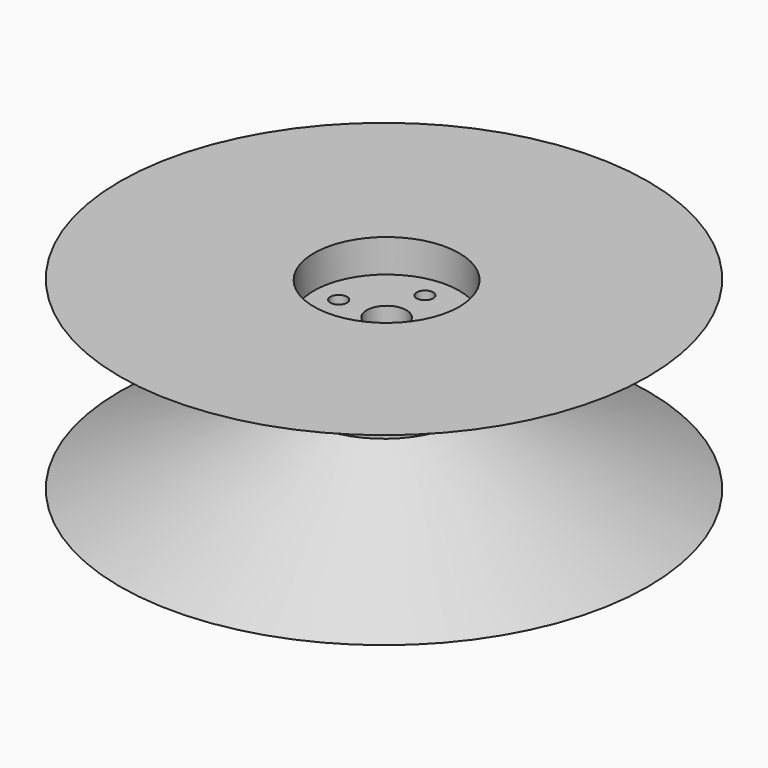
from build123d import *

# Parameters (mm, degrees)
F0_R      = 40
F1_DEPTH  = 13
F1_TAPER  = 65
F2_DEPTH  = 2
F2_FACE_R = 12.1214100334
F3_DEPTH  = 13
F3_TAPER  = -65
F4_R      = 11
F5_DEPTH  = 5
F6_R      = 3
F7_DEPTH  = 50
F6_R_2    = 1.25
F8_DEPTH  = 20
F9_R      = 13.260393294
F9_R_2    = 3
F10_DEPTH = 5


with BuildPart() as f1:
    # F0 (on Top) → F1 (new body)
    with BuildSketch(Plane.XY):
        with Locations((-0.3933568078, 0)):
            Circle(F0_R)
    extrude(amount=F1_DEPTH, taper=F1_TAPER)

    # F2 (add): a face of the model
    f2_faces = [f1.faces().sort_by_distance(p)[0] for p in [
        (-0.3933568078, 0, 13),
    ]]
    extrude(f2_faces, amount=F2_DEPTH)

    # F2_face (on face) → F3 (join)
    with BuildSketch(Plane(origin=(-0.3933568078, 0, 15), x_dir=(1, 0, 0), z_dir=(0, 0, 1))):
        Circle(F2_FACE_R)
    extrude(amount=F3_DEPTH, taper=F3_TAPER)

    # F4 (on face) → F5 (cut)
    with BuildSketch(Plane.XY.offset(28)):
        Circle(F4_R)
    extrude(amount=-F5_DEPTH, mode=Mode.SUBTRACT)

    # F6 (on face) → F7 (cut)
    with BuildSketch(Plane.XY.offset(23)):
        Circle(F6_R)
    extrude(amount=-F7_DEPTH, mode=Mode.SUBTRACT)

    # F6 (on face) → F8 (cut)
    with BuildSketch(Plane.XY.offset(23)):
        with Locations((0, 7.25)):
            Circle(F6_R_2)
        with Locations((7.25, 0)):
            Circle(F6_R_2)
        with Locations((0, -7.25)):
            Circle(F6_R_2)
        with Locations((-7.25, 0)):
            Circle(F6_R_2)
    extrude(amount=-F8_DEPTH, mode=Mode.SUBTRACT)

    # F9 (on face) → F10 (cut)
    with BuildSketch(Plane(origin=(0, 0, 0), x_dir=(1, 0, 0), z_dir=(0, 0, -1))):
        Circle(F9_R)
        Circle(F9_R_2, mode=Mode.SUBTRACT)
    extrude(amount=-F10_DEPTH, mode=Mode.SUBTRACT)


solid = f1.part
